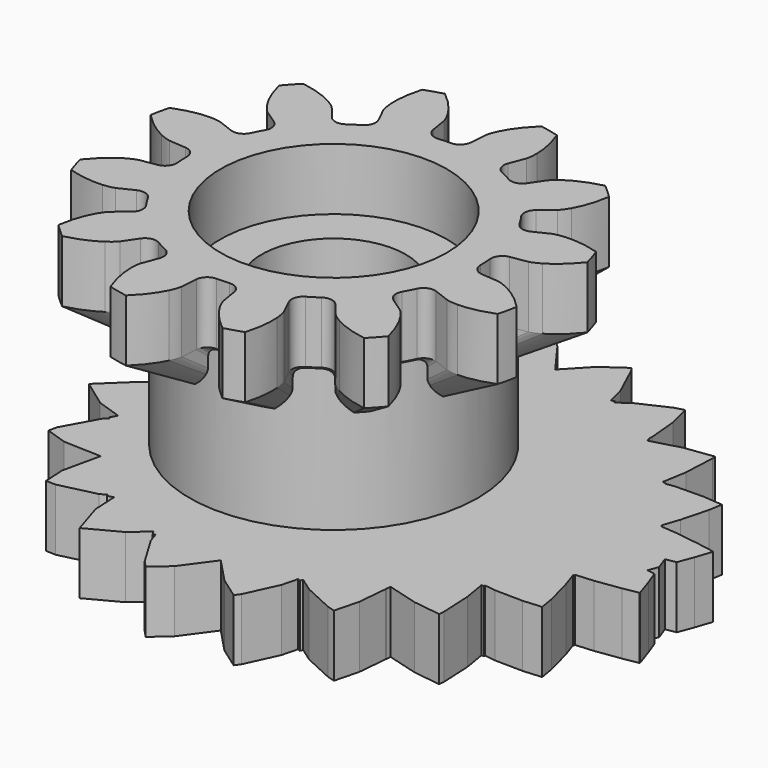
from build123d import *

# Parameters (mm, degrees)
CYLINDER006_R     = 5.5
CYLINDER006_DEPTH = 3
CYLINDER001_R     = 3.5
CYLINDER001_DEPTH = 20
CYLINDER007_R     = 5.5
CYLINDER007_DEPTH = 3
CYLINDER_R        = 7
CYLINDER_DEPTH    = 10
PAD005_DEPTH      = 3


with BuildPart() as bearingcutoutbot:
    # Cylinder006 → Cylinder006 (new body)
    with BuildSketch(Plane(origin=(24, 0, 0), x_dir=(1, 0, 0), z_dir=(0, 0, 1))):
        Circle(CYLINDER006_R)
    extrude(amount=CYLINDER006_DEPTH)


with BuildPart() as axlecutout:
    # Cylinder001 → Cylinder001 (new body)
    with BuildSketch(Plane(origin=(24, 0, 0), x_dir=(1, 0, 0), z_dir=(0, 0, 1))):
        Circle(CYLINDER001_R)
    extrude(amount=CYLINDER001_DEPTH)


with BuildPart() as cutouts:
    # Cylinder007 → Cylinder007 (new body)
    with BuildSketch(Plane(origin=(24, 0, 10), x_dir=(1, 0, 0), z_dir=(0, 0, 1))):
        Circle(CYLINDER007_R)
    extrude(amount=CYLINDER007_DEPTH)

    # Fusion006: union bearingCutoutBot, axleCutout
    add(bearingcutoutbot.part)
    add(axlecutout.part)


with BuildPart() as spacer:
    # Cylinder → Cylinder (new body)
    with BuildSketch(Plane(origin=(24, 0, 0), x_dir=(1, 0, 0), z_dir=(0, 0, 1))):
        Circle(CYLINDER_R)
    extrude(amount=CYLINDER_DEPTH)


with BuildPart() as topgear:
    # InvoluteGear003 → Loft section 0
    with BuildSketch(Plane(origin=(24, 0, 8), x_dir=(0.953717, 0.300706, 0), z_dir=(0, 0, 1))):
        with BuildLine():
            Line((5.057029, -0.742605), (5.594228, -0.820664))
            add(Edge.make_bspline(
                [(5.594228, -0.820664), (5.635581, -0.823609), (5.759738, -0.82636), (5.968462, -0.778836)],
                knots=[0, 0, 0, 0, 1, 1, 1, 1], degree=3))
            add(Edge.make_bspline(
                [(5.968462, -0.778836), (6.216913, -0.72081), (6.57069, -0.59196), (6.994514, -0.309757)],
                knots=[0, 0, 0, 0, 1, 1, 1, 1], degree=3))
            ThreePointArc((6.994514, -0.309757), (7.00137, 0), (6.994514, 0.309757))
            add(Edge.make_bspline(
                [(6.994514, 0.309757), (6.57069, 0.59196), (6.216913, 0.72081), (5.968462, 0.778836)],
                knots=[0, 0, 0, 0, 1, 1, 1, 1], degree=3))
            add(Edge.make_bspline(
                [(5.968462, 0.778836), (5.759738, 0.82636), (5.635581, 0.823609), (5.594228, 0.820664)],
                knots=[0, 0, 0, 0, 1, 1, 1, 1], degree=3))
            Line((5.594228, 0.820664), (5.057029, 0.742605))
            ThreePointArc((5.057029, 0.742605), (4.790267, 0.804493), (4.636707, 1.031234))
            ThreePointArc((4.636707, 1.031234), (4.588148, 1.22939), (4.531124, 1.425279))
            ThreePointArc((4.531124, 1.425279), (4.550739, 1.698422), (4.750818, 1.885399))
            Line((4.750818, 1.885399), (5.255075, 2.086398))
            add(Edge.make_bspline(
                [(5.255075, 2.086398), (5.292361, 2.104524), (5.401259, 2.16422), (5.558258, 2.309739)],
                knots=[0, 0, 0, 0, 1, 1, 1, 1], degree=3))
            add(Edge.make_bspline(
                [(5.558258, 2.309739), (5.74441, 2.484217), (5.986365, 2.772692), (6.212305, 3.229)],
                knots=[0, 0, 0, 0, 1, 1, 1, 1], degree=3))
            ThreePointArc((6.212305, 3.229), (6.063365, 3.500685), (5.902548, 3.765514))
            add(Edge.make_bspline(
                [(5.902548, 3.765514), (5.394404, 3.797998), (5.0236, 3.732696), (4.779422, 3.658723)],
                knots=[0, 0, 0, 0, 1, 1, 1, 1], degree=3))
            add(Edge.make_bspline(
                [(4.779422, 3.658723), (4.574899, 3.595517), (4.468752, 3.531057), (4.434411, 3.50783)],
                knots=[0, 0, 0, 0, 1, 1, 1, 1], degree=3))
            Line((4.434411, 3.50783), (4.008213, 3.171629))
            ThreePointArc((4.008213, 3.171629), (3.746246, 3.091845), (3.499889, 3.211429))
            ThreePointArc((3.499889, 3.211429), (3.358757, 3.358757), (3.211429, 3.499889))
            ThreePointArc((3.211429, 3.499889), (3.091845, 3.746246), (3.171629, 4.008213))
            Line((3.171629, 4.008213), (3.50783, 4.434411))
            add(Edge.make_bspline(
                [(3.50783, 4.434411), (3.531057, 4.468752), (3.595517, 4.574899), (3.658723, 4.779422)],
                knots=[0, 0, 0, 0, 1, 1, 1, 1], degree=3))
            add(Edge.make_bspline(
                [(3.658723, 4.779422), (3.732696, 5.0236), (3.797998, 5.394404), (3.765514, 5.902548)],
                knots=[0, 0, 0, 0, 1, 1, 1, 1], degree=3))
            ThreePointArc((3.765514, 5.902548), (3.500685, 6.063365), (3.229, 6.212305))
            add(Edge.make_bspline(
                [(3.229, 6.212305), (2.772692, 5.986365), (2.484217, 5.74441), (2.309739, 5.558258)],
                knots=[0, 0, 0, 0, 1, 1, 1, 1], degree=3))
            add(Edge.make_bspline(
                [(2.309739, 5.558258), (2.16422, 5.401259), (2.104524, 5.292361), (2.086398, 5.255075)],
                knots=[0, 0, 0, 0, 1, 1, 1, 1], degree=3))
            Line((2.086398, 5.255075), (1.885399, 4.750818))
            ThreePointArc((1.885399, 4.750818), (1.698422, 4.550739), (1.425279, 4.531124))
            ThreePointArc((1.425279, 4.531124), (1.22939, 4.588148), (1.031234, 4.636707))
            ThreePointArc((1.031234, 4.636707), (0.804493, 4.790267), (0.742605, 5.057029))
            Line((0.742605, 5.057029), (0.820664, 5.594228))
            add(Edge.make_bspline(
                [(0.820664, 5.594228), (0.823609, 5.635581), (0.82636, 5.759738), (0.778836, 5.968462)],
                knots=[0, 0, 0, 0, 1, 1, 1, 1], degree=3))
            add(Edge.make_bspline(
                [(0.778836, 5.968462), (0.72081, 6.216913), (0.59196, 6.57069), (0.309757, 6.994514)],
                knots=[0, 0, 0, 0, 1, 1, 1, 1], degree=3))
            ThreePointArc((0.309757, 6.994514), (0, 7.00137), (-0.309757, 6.994514))
            add(Edge.make_bspline(
                [(-0.309757, 6.994514), (-0.59196, 6.57069), (-0.72081, 6.216913), (-0.778836, 5.968462)],
                knots=[0, 0, 0, 0, 1, 1, 1, 1], degree=3))
            add(Edge.make_bspline(
                [(-0.778836, 5.968462), (-0.82636, 5.759738), (-0.823609, 5.635581), (-0.820664, 5.594228)],
                knots=[0, 0, 0, 0, 1, 1, 1, 1], degree=3))
            Line((-0.820664, 5.594228), (-0.742605, 5.057029))
            ThreePointArc((-0.742605, 5.057029), (-0.804493, 4.790267), (-1.031234, 4.636707))
            ThreePointArc((-1.031234, 4.636707), (-1.22939, 4.588148), (-1.425279, 4.531124))
            ThreePointArc((-1.425279, 4.531124), (-1.698422, 4.550739), (-1.885399, 4.750818))
            Line((-1.885399, 4.750818), (-2.086398, 5.255075))
            add(Edge.make_bspline(
                [(-2.086398, 5.255075), (-2.104524, 5.292361), (-2.16422, 5.401259), (-2.309739, 5.558258)],
                knots=[0, 0, 0, 0, 1, 1, 1, 1], degree=3))
            add(Edge.make_bspline(
                [(-2.309739, 5.558258), (-2.484217, 5.74441), (-2.772692, 5.986365), (-3.229, 6.212305)],
                knots=[0, 0, 0, 0, 1, 1, 1, 1], degree=3))
            ThreePointArc((-3.229, 6.212305), (-3.500685, 6.063365), (-3.765514, 5.902548))
            add(Edge.make_bspline(
                [(-3.765514, 5.902548), (-3.797998, 5.394404), (-3.732696, 5.0236), (-3.658723, 4.779422)],
                knots=[0, 0, 0, 0, 1, 1, 1, 1], degree=3))
            add(Edge.make_bspline(
                [(-3.658723, 4.779422), (-3.595517, 4.574899), (-3.531057, 4.468752), (-3.50783, 4.434411)],
                knots=[0, 0, 0, 0, 1, 1, 1, 1], degree=3))
            Line((-3.50783, 4.434411), (-3.171629, 4.008213))
            ThreePointArc((-3.171629, 4.008213), (-3.091845, 3.746246), (-3.211429, 3.499889))
            ThreePointArc((-3.211429, 3.499889), (-3.358757, 3.358757), (-3.499889, 3.211429))
            ThreePointArc((-3.499889, 3.211429), (-3.746246, 3.091845), (-4.008213, 3.171629))
            Line((-4.008213, 3.171629), (-4.434411, 3.50783))
            add(Edge.make_bspline(
                [(-4.434411, 3.50783), (-4.468752, 3.531057), (-4.574899, 3.595517), (-4.779422, 3.658723)],
                knots=[0, 0, 0, 0, 1, 1, 1, 1], degree=3))
            add(Edge.make_bspline(
                [(-4.779422, 3.658723), (-5.0236, 3.732696), (-5.394404, 3.797998), (-5.902548, 3.765514)],
                knots=[0, 0, 0, 0, 1, 1, 1, 1], degree=3))
            ThreePointArc((-5.902548, 3.765514), (-6.063365, 3.500685), (-6.212305, 3.229))
            add(Edge.make_bspline(
                [(-6.212305, 3.229), (-5.986365, 2.772692), (-5.74441, 2.484217), (-5.558258, 2.309739)],
                knots=[0, 0, 0, 0, 1, 1, 1, 1], degree=3))
            add(Edge.make_bspline(
                [(-5.558258, 2.309739), (-5.401259, 2.16422), (-5.292361, 2.104524), (-5.255075, 2.086398)],
                knots=[0, 0, 0, 0, 1, 1, 1, 1], degree=3))
            Line((-5.255075, 2.086398), (-4.750818, 1.885399))
            ThreePointArc((-4.750818, 1.885399), (-4.550739, 1.698422), (-4.531124, 1.425279))
            ThreePointArc((-4.531124, 1.425279), (-4.588148, 1.22939), (-4.636707, 1.031234))
            ThreePointArc((-4.636707, 1.031234), (-4.790267, 0.804493), (-5.057029, 0.742605))
            Line((-5.057029, 0.742605), (-5.594228, 0.820664))
            add(Edge.make_bspline(
                [(-5.594228, 0.820664), (-5.635581, 0.823609), (-5.759738, 0.82636), (-5.968462, 0.778836)],
                knots=[0, 0, 0, 0, 1, 1, 1, 1], degree=3))
            add(Edge.make_bspline(
                [(-5.968462, 0.778836), (-6.216913, 0.72081), (-6.57069, 0.59196), (-6.994514, 0.309757)],
                knots=[0, 0, 0, 0, 1, 1, 1, 1], degree=3))
            ThreePointArc((-6.994514, 0.309757), (-7.00137, 0), (-6.994514, -0.309757))
            add(Edge.make_bspline(
                [(-6.994514, -0.309757), (-6.57069, -0.59196), (-6.216913, -0.72081), (-5.968462, -0.778836)],
                knots=[0, 0, 0, 0, 1, 1, 1, 1], degree=3))
            add(Edge.make_bspline(
                [(-5.968462, -0.778836), (-5.759738, -0.82636), (-5.635581, -0.823609), (-5.594228, -0.820664)],
                knots=[0, 0, 0, 0, 1, 1, 1, 1], degree=3))
            Line((-5.594228, -0.820664), (-5.057029, -0.742605))
            ThreePointArc((-5.057029, -0.742605), (-4.790267, -0.804493), (-4.636707, -1.031234))
            ThreePointArc((-4.636707, -1.031234), (-4.588148, -1.22939), (-4.531124, -1.425279))
            ThreePointArc((-4.531124, -1.425279), (-4.550739, -1.698422), (-4.750818, -1.885399))
            Line((-4.750818, -1.885399), (-5.255075, -2.086398))
            add(Edge.make_bspline(
                [(-5.255075, -2.086398), (-5.292361, -2.104524), (-5.401259, -2.16422), (-5.558258, -2.309739)],
                knots=[0, 0, 0, 0, 1, 1, 1, 1], degree=3))
            add(Edge.make_bspline(
                [(-5.558258, -2.309739), (-5.74441, -2.484217), (-5.986365, -2.772692), (-6.212305, -3.229)],
                knots=[0, 0, 0, 0, 1, 1, 1, 1], degree=3))
            ThreePointArc((-6.212305, -3.229), (-6.063365, -3.500685), (-5.902548, -3.765514))
            add(Edge.make_bspline(
                [(-5.902548, -3.765514), (-5.394404, -3.797998), (-5.0236, -3.732696), (-4.779422, -3.658723)],
                knots=[0, 0, 0, 0, 1, 1, 1, 1], degree=3))
            add(Edge.make_bspline(
                [(-4.779422, -3.658723), (-4.574899, -3.595517), (-4.468752, -3.531057), (-4.434411, -3.50783)],
                knots=[0, 0, 0, 0, 1, 1, 1, 1], degree=3))
            Line((-4.434411, -3.50783), (-4.008213, -3.171629))
            ThreePointArc((-4.008213, -3.171629), (-3.746246, -3.091845), (-3.499889, -3.211429))
            ThreePointArc((-3.499889, -3.211429), (-3.358757, -3.358757), (-3.211429, -3.499889))
            ThreePointArc((-3.211429, -3.499889), (-3.091845, -3.746246), (-3.171629, -4.008213))
            Line((-3.171629, -4.008213), (-3.50783, -4.434411))
            add(Edge.make_bspline(
                [(-3.50783, -4.434411), (-3.531057, -4.468752), (-3.595517, -4.574899), (-3.658723, -4.779422)],
                knots=[0, 0, 0, 0, 1, 1, 1, 1], degree=3))
            add(Edge.make_bspline(
                [(-3.658723, -4.779422), (-3.732696, -5.0236), (-3.797998, -5.394404), (-3.765514, -5.902548)],
                knots=[0, 0, 0, 0, 1, 1, 1, 1], degree=3))
            ThreePointArc((-3.765514, -5.902548), (-3.500685, -6.063365), (-3.229, -6.212305))
            add(Edge.make_bspline(
                [(-3.229, -6.212305), (-2.772692, -5.986365), (-2.484217, -5.74441), (-2.309739, -5.558258)],
                knots=[0, 0, 0, 0, 1, 1, 1, 1], degree=3))
            add(Edge.make_bspline(
                [(-2.309739, -5.558258), (-2.16422, -5.401259), (-2.104524, -5.292361), (-2.086398, -5.255075)],
                knots=[0, 0, 0, 0, 1, 1, 1, 1], degree=3))
            Line((-2.086398, -5.255075), (-1.885399, -4.750818))
            ThreePointArc((-1.885399, -4.750818), (-1.698422, -4.550739), (-1.425279, -4.531124))
            ThreePointArc((-1.425279, -4.531124), (-1.22939, -4.588148), (-1.031234, -4.636707))
            ThreePointArc((-1.031234, -4.636707), (-0.804493, -4.790267), (-0.742605, -5.057029))
            Line((-0.742605, -5.057029), (-0.820664, -5.594228))
            add(Edge.make_bspline(
                [(-0.820664, -5.594228), (-0.823609, -5.635581), (-0.82636, -5.759738), (-0.778836, -5.968462)],
                knots=[0, 0, 0, 0, 1, 1, 1, 1], degree=3))
            add(Edge.make_bspline(
                [(-0.778836, -5.968462), (-0.72081, -6.216913), (-0.59196, -6.57069), (-0.309757, -6.994514)],
                knots=[0, 0, 0, 0, 1, 1, 1, 1], degree=3))
            ThreePointArc((-0.309757, -6.994514), (0, -7.00137), (0.309757, -6.994514))
            add(Edge.make_bspline(
                [(0.309757, -6.994514), (0.59196, -6.57069), (0.72081, -6.216913), (0.778836, -5.968462)],
                knots=[0, 0, 0, 0, 1, 1, 1, 1], degree=3))
            add(Edge.make_bspline(
                [(0.778836, -5.968462), (0.82636, -5.759738), (0.823609, -5.635581), (0.820664, -5.594228)],
                knots=[0, 0, 0, 0, 1, 1, 1, 1], degree=3))
            Line((0.820664, -5.594228), (0.742605, -5.057029))
            ThreePointArc((0.742605, -5.057029), (0.804493, -4.790267), (1.031234, -4.636707))
            ThreePointArc((1.031234, -4.636707), (1.22939, -4.588148), (1.425279, -4.531124))
            ThreePointArc((1.425279, -4.531124), (1.698422, -4.550739), (1.885399, -4.750818))
            Line((1.885399, -4.750818), (2.086398, -5.255075))
            add(Edge.make_bspline(
                [(2.086398, -5.255075), (2.104524, -5.292361), (2.16422, -5.401259), (2.309739, -5.558258)],
                knots=[0, 0, 0, 0, 1, 1, 1, 1], degree=3))
            add(Edge.make_bspline(
                [(2.309739, -5.558258), (2.484217, -5.74441), (2.772692, -5.986365), (3.229, -6.212305)],
                knots=[0, 0, 0, 0, 1, 1, 1, 1], degree=3))
            ThreePointArc((3.229, -6.212305), (3.500685, -6.063365), (3.765514, -5.902548))
            add(Edge.make_bspline(
                [(3.765514, -5.902548), (3.797998, -5.394404), (3.732696, -5.0236), (3.658723, -4.779422)],
                knots=[0, 0, 0, 0, 1, 1, 1, 1], degree=3))
            add(Edge.make_bspline(
                [(3.658723, -4.779422), (3.595517, -4.574899), (3.531057, -4.468752), (3.50783, -4.434411)],
                knots=[0, 0, 0, 0, 1, 1, 1, 1], degree=3))
            Line((3.50783, -4.434411), (3.171629, -4.008213))
            ThreePointArc((3.171629, -4.008213), (3.091845, -3.746246), (3.211429, -3.499889))
            ThreePointArc((3.211429, -3.499889), (3.358757, -3.358757), (3.499889, -3.211429))
            ThreePointArc((3.499889, -3.211429), (3.746246, -3.091845), (4.008213, -3.171629))
            Line((4.008213, -3.171629), (4.434411, -3.50783))
            add(Edge.make_bspline(
                [(4.434411, -3.50783), (4.468752, -3.531057), (4.574899, -3.595517), (4.779422, -3.658723)],
                knots=[0, 0, 0, 0, 1, 1, 1, 1], degree=3))
            add(Edge.make_bspline(
                [(4.779422, -3.658723), (5.0236, -3.732696), (5.394404, -3.797998), (5.902548, -3.765514)],
                knots=[0, 0, 0, 0, 1, 1, 1, 1], degree=3))
            ThreePointArc((5.902548, -3.765514), (6.063365, -3.500685), (6.212305, -3.229))
            add(Edge.make_bspline(
                [(6.212305, -3.229), (5.986365, -2.772692), (5.74441, -2.484217), (5.558258, -2.309739)],
                knots=[0, 0, 0, 0, 1, 1, 1, 1], degree=3))
            add(Edge.make_bspline(
                [(5.558258, -2.309739), (5.401259, -2.16422), (5.292361, -2.104524), (5.255075, -2.086398)],
                knots=[0, 0, 0, 0, 1, 1, 1, 1], degree=3))
            Line((5.255075, -2.086398), (4.750818, -1.885399))
            ThreePointArc((4.750818, -1.885399), (4.550739, -1.698422), (4.531124, -1.425279))
            ThreePointArc((4.531124, -1.425279), (4.588148, -1.22939), (4.636707, -1.031234))
            ThreePointArc((4.636707, -1.031234), (4.790267, -0.804493), (5.057029, -0.742605))
        make_face()
    # InvoluteGear005 → Loft section 1
    with BuildSketch(Plane(origin=(24, 0, 10), x_dir=(0.953717, 0.300706, 0), z_dir=(0, 0, 1))):
        with BuildLine():
            Line((7.585543, -1.113908), (8.391342, -1.230997))
            add(Edge.make_bspline(
                [(8.391342, -1.230997), (8.453372, -1.235413), (8.639606, -1.239539), (8.952693, -1.168255)],
                knots=[0, 0, 0, 0, 1, 1, 1, 1], degree=3))
            add(Edge.make_bspline(
                [(8.952693, -1.168255), (9.32537, -1.081215), (9.856035, -0.88794), (10.49177, -0.464635)],
                knots=[0, 0, 0, 0, 1, 1, 1, 1], degree=3))
            ThreePointArc((10.49177, -0.464635), (10.502056, 0), (10.49177, 0.464635))
            add(Edge.make_bspline(
                [(10.49177, 0.464635), (9.856035, 0.88794), (9.32537, 1.081215), (8.952693, 1.168255)],
                knots=[0, 0, 0, 0, 1, 1, 1, 1], degree=3))
            add(Edge.make_bspline(
                [(8.952693, 1.168255), (8.639606, 1.239539), (8.453372, 1.235413), (8.391342, 1.230997)],
                knots=[0, 0, 0, 0, 1, 1, 1, 1], degree=3))
            Line((8.391342, 1.230997), (7.585543, 1.113908))
            ThreePointArc((7.585543, 1.113908), (7.1854, 1.20674), (6.955061, 1.546852))
            ThreePointArc((6.955061, 1.546852), (6.882222, 1.844086), (6.796685, 2.137918))
            ThreePointArc((6.796685, 2.137918), (6.826109, 2.547633), (7.126227, 2.828099))
            Line((7.126227, 2.828099), (7.882613, 3.129596))
            add(Edge.make_bspline(
                [(7.882613, 3.129596), (7.938542, 3.156787), (8.101888, 3.246331), (8.337387, 3.464608)],
                knots=[0, 0, 0, 0, 1, 1, 1, 1], degree=3))
            add(Edge.make_bspline(
                [(8.337387, 3.464608), (8.616615, 3.726326), (8.979547, 4.159039), (9.318457, 4.8435)],
                knots=[0, 0, 0, 0, 1, 1, 1, 1], degree=3))
            ThreePointArc((9.318457, 4.8435), (9.095047, 5.251028), (8.853822, 5.648271))
            add(Edge.make_bspline(
                [(8.853822, 5.648271), (8.091607, 5.696996), (7.5354, 5.599044), (7.169132, 5.488085)],
                knots=[0, 0, 0, 0, 1, 1, 1, 1], degree=3))
            add(Edge.make_bspline(
                [(7.169132, 5.488085), (6.862349, 5.393276), (6.703128, 5.296585), (6.651617, 5.261745)],
                knots=[0, 0, 0, 0, 1, 1, 1, 1], degree=3))
            Line((6.651617, 5.261745), (6.012319, 4.757444))
            ThreePointArc((6.012319, 4.757444), (5.619369, 4.637767), (5.249834, 4.817143))
            ThreePointArc((5.249834, 4.817143), (5.038136, 5.038136), (4.817143, 5.249834))
            ThreePointArc((4.817143, 5.249834), (4.637767, 5.619369), (4.757444, 6.012319))
            Line((4.757444, 6.012319), (5.261745, 6.651617))
            add(Edge.make_bspline(
                [(5.261745, 6.651617), (5.296585, 6.703128), (5.393276, 6.862349), (5.488085, 7.169132)],
                knots=[0, 0, 0, 0, 1, 1, 1, 1], degree=3))
            add(Edge.make_bspline(
                [(5.488085, 7.169132), (5.599044, 7.5354), (5.696996, 8.091607), (5.648271, 8.853822)],
                knots=[0, 0, 0, 0, 1, 1, 1, 1], degree=3))
            ThreePointArc((5.648271, 8.853822), (5.251028, 9.095047), (4.8435, 9.318457))
            add(Edge.make_bspline(
                [(4.8435, 9.318457), (4.159039, 8.979547), (3.726326, 8.616615), (3.464608, 8.337387)],
                knots=[0, 0, 0, 0, 1, 1, 1, 1], degree=3))
            add(Edge.make_bspline(
                [(3.464608, 8.337387), (3.246331, 8.101888), (3.156787, 7.938542), (3.129596, 7.882613)],
                knots=[0, 0, 0, 0, 1, 1, 1, 1], degree=3))
            Line((3.129596, 7.882613), (2.828099, 7.126227))
            ThreePointArc((2.828099, 7.126227), (2.547633, 6.826109), (2.137918, 6.796685))
            ThreePointArc((2.137918, 6.796685), (1.844086, 6.882222), (1.546852, 6.955061))
            ThreePointArc((1.546852, 6.955061), (1.20674, 7.1854), (1.113908, 7.585543))
            Line((1.113908, 7.585543), (1.230997, 8.391342))
            add(Edge.make_bspline(
                [(1.230997, 8.391342), (1.235413, 8.453372), (1.239539, 8.639606), (1.168255, 8.952693)],
                knots=[0, 0, 0, 0, 1, 1, 1, 1], degree=3))
            add(Edge.make_bspline(
                [(1.168255, 8.952693), (1.081215, 9.32537), (0.88794, 9.856035), (0.464635, 10.49177)],
                knots=[0, 0, 0, 0, 1, 1, 1, 1], degree=3))
            ThreePointArc((0.464635, 10.49177), (0, 10.502056), (-0.464635, 10.49177))
            add(Edge.make_bspline(
                [(-0.464635, 10.49177), (-0.88794, 9.856035), (-1.081215, 9.32537), (-1.168255, 8.952693)],
                knots=[0, 0, 0, 0, 1, 1, 1, 1], degree=3))
            add(Edge.make_bspline(
                [(-1.168255, 8.952693), (-1.239539, 8.639606), (-1.235413, 8.453372), (-1.230997, 8.391342)],
                knots=[0, 0, 0, 0, 1, 1, 1, 1], degree=3))
            Line((-1.230997, 8.391342), (-1.113908, 7.585543))
            ThreePointArc((-1.113908, 7.585543), (-1.20674, 7.1854), (-1.546852, 6.955061))
            ThreePointArc((-1.546852, 6.955061), (-1.844086, 6.882222), (-2.137918, 6.796685))
            ThreePointArc((-2.137918, 6.796685), (-2.547633, 6.826109), (-2.828099, 7.126227))
            Line((-2.828099, 7.126227), (-3.129596, 7.882613))
            add(Edge.make_bspline(
                [(-3.129596, 7.882613), (-3.156787, 7.938542), (-3.246331, 8.101888), (-3.464608, 8.337387)],
                knots=[0, 0, 0, 0, 1, 1, 1, 1], degree=3))
            add(Edge.make_bspline(
                [(-3.464608, 8.337387), (-3.726326, 8.616615), (-4.159039, 8.979547), (-4.8435, 9.318457)],
                knots=[0, 0, 0, 0, 1, 1, 1, 1], degree=3))
            ThreePointArc((-4.8435, 9.318457), (-5.251028, 9.095047), (-5.648271, 8.853822))
            add(Edge.make_bspline(
                [(-5.648271, 8.853822), (-5.696996, 8.091607), (-5.599044, 7.5354), (-5.488085, 7.169132)],
                knots=[0, 0, 0, 0, 1, 1, 1, 1], degree=3))
            add(Edge.make_bspline(
                [(-5.488085, 7.169132), (-5.393276, 6.862349), (-5.296585, 6.703128), (-5.261745, 6.651617)],
                knots=[0, 0, 0, 0, 1, 1, 1, 1], degree=3))
            Line((-5.261745, 6.651617), (-4.757444, 6.012319))
            ThreePointArc((-4.757444, 6.012319), (-4.637767, 5.619369), (-4.817143, 5.249834))
            ThreePointArc((-4.817143, 5.249834), (-5.038136, 5.038136), (-5.249834, 4.817143))
            ThreePointArc((-5.249834, 4.817143), (-5.619369, 4.637767), (-6.012319, 4.757444))
            Line((-6.012319, 4.757444), (-6.651617, 5.261745))
            add(Edge.make_bspline(
                [(-6.651617, 5.261745), (-6.703128, 5.296585), (-6.862349, 5.393276), (-7.169132, 5.488085)],
                knots=[0, 0, 0, 0, 1, 1, 1, 1], degree=3))
            add(Edge.make_bspline(
                [(-7.169132, 5.488085), (-7.5354, 5.599044), (-8.091607, 5.696996), (-8.853822, 5.648271)],
                knots=[0, 0, 0, 0, 1, 1, 1, 1], degree=3))
            ThreePointArc((-8.853822, 5.648271), (-9.095047, 5.251028), (-9.318457, 4.8435))
            add(Edge.make_bspline(
                [(-9.318457, 4.8435), (-8.979547, 4.159039), (-8.616615, 3.726326), (-8.337387, 3.464608)],
                knots=[0, 0, 0, 0, 1, 1, 1, 1], degree=3))
            add(Edge.make_bspline(
                [(-8.337387, 3.464608), (-8.101888, 3.246331), (-7.938542, 3.156787), (-7.882613, 3.129596)],
                knots=[0, 0, 0, 0, 1, 1, 1, 1], degree=3))
            Line((-7.882613, 3.129596), (-7.126227, 2.828099))
            ThreePointArc((-7.126227, 2.828099), (-6.826109, 2.547633), (-6.796685, 2.137918))
            ThreePointArc((-6.796685, 2.137918), (-6.882222, 1.844086), (-6.955061, 1.546852))
            ThreePointArc((-6.955061, 1.546852), (-7.1854, 1.20674), (-7.585543, 1.113908))
            Line((-7.585543, 1.113908), (-8.391342, 1.230997))
            add(Edge.make_bspline(
                [(-8.391342, 1.230997), (-8.453372, 1.235413), (-8.639606, 1.239539), (-8.952693, 1.168255)],
                knots=[0, 0, 0, 0, 1, 1, 1, 1], degree=3))
            add(Edge.make_bspline(
                [(-8.952693, 1.168255), (-9.32537, 1.081215), (-9.856035, 0.88794), (-10.49177, 0.464635)],
                knots=[0, 0, 0, 0, 1, 1, 1, 1], degree=3))
            ThreePointArc((-10.49177, 0.464635), (-10.502056, 0), (-10.49177, -0.464635))
            add(Edge.make_bspline(
                [(-10.49177, -0.464635), (-9.856035, -0.88794), (-9.32537, -1.081215), (-8.952693, -1.168255)],
                knots=[0, 0, 0, 0, 1, 1, 1, 1], degree=3))
            add(Edge.make_bspline(
                [(-8.952693, -1.168255), (-8.639606, -1.239539), (-8.453372, -1.235413), (-8.391342, -1.230997)],
                knots=[0, 0, 0, 0, 1, 1, 1, 1], degree=3))
            Line((-8.391342, -1.230997), (-7.585543, -1.113908))
            ThreePointArc((-7.585543, -1.113908), (-7.1854, -1.20674), (-6.955061, -1.546852))
            ThreePointArc((-6.955061, -1.546852), (-6.882222, -1.844086), (-6.796685, -2.137918))
            ThreePointArc((-6.796685, -2.137918), (-6.826109, -2.547633), (-7.126227, -2.828099))
            Line((-7.126227, -2.828099), (-7.882613, -3.129596))
            add(Edge.make_bspline(
                [(-7.882613, -3.129596), (-7.938542, -3.156787), (-8.101888, -3.246331), (-8.337387, -3.464608)],
                knots=[0, 0, 0, 0, 1, 1, 1, 1], degree=3))
            add(Edge.make_bspline(
                [(-8.337387, -3.464608), (-8.616615, -3.726326), (-8.979547, -4.159039), (-9.318457, -4.8435)],
                knots=[0, 0, 0, 0, 1, 1, 1, 1], degree=3))
            ThreePointArc((-9.318457, -4.8435), (-9.095047, -5.251028), (-8.853822, -5.648271))
            add(Edge.make_bspline(
                [(-8.853822, -5.648271), (-8.091607, -5.696996), (-7.5354, -5.599044), (-7.169132, -5.488085)],
                knots=[0, 0, 0, 0, 1, 1, 1, 1], degree=3))
            add(Edge.make_bspline(
                [(-7.169132, -5.488085), (-6.862349, -5.393276), (-6.703128, -5.296585), (-6.651617, -5.261745)],
                knots=[0, 0, 0, 0, 1, 1, 1, 1], degree=3))
            Line((-6.651617, -5.261745), (-6.012319, -4.757444))
            ThreePointArc((-6.012319, -4.757444), (-5.619369, -4.637767), (-5.249834, -4.817143))
            ThreePointArc((-5.249834, -4.817143), (-5.038136, -5.038136), (-4.817143, -5.249834))
            ThreePointArc((-4.817143, -5.249834), (-4.637767, -5.619369), (-4.757444, -6.012319))
            Line((-4.757444, -6.012319), (-5.261745, -6.651617))
            add(Edge.make_bspline(
                [(-5.261745, -6.651617), (-5.296585, -6.703128), (-5.393276, -6.862349), (-5.488085, -7.169132)],
                knots=[0, 0, 0, 0, 1, 1, 1, 1], degree=3))
            add(Edge.make_bspline(
                [(-5.488085, -7.169132), (-5.599044, -7.5354), (-5.696996, -8.091607), (-5.648271, -8.853822)],
                knots=[0, 0, 0, 0, 1, 1, 1, 1], degree=3))
            ThreePointArc((-5.648271, -8.853822), (-5.251028, -9.095047), (-4.8435, -9.318457))
            add(Edge.make_bspline(
                [(-4.8435, -9.318457), (-4.159039, -8.979547), (-3.726326, -8.616615), (-3.464608, -8.337387)],
                knots=[0, 0, 0, 0, 1, 1, 1, 1], degree=3))
            add(Edge.make_bspline(
                [(-3.464608, -8.337387), (-3.246331, -8.101888), (-3.156787, -7.938542), (-3.129596, -7.882613)],
                knots=[0, 0, 0, 0, 1, 1, 1, 1], degree=3))
            Line((-3.129596, -7.882613), (-2.828099, -7.126227))
            ThreePointArc((-2.828099, -7.126227), (-2.547633, -6.826109), (-2.137918, -6.796685))
            ThreePointArc((-2.137918, -6.796685), (-1.844086, -6.882222), (-1.546852, -6.955061))
            ThreePointArc((-1.546852, -6.955061), (-1.20674, -7.1854), (-1.113908, -7.585543))
            Line((-1.113908, -7.585543), (-1.230997, -8.391342))
            add(Edge.make_bspline(
                [(-1.230997, -8.391342), (-1.235413, -8.453372), (-1.239539, -8.639606), (-1.168255, -8.952693)],
                knots=[0, 0, 0, 0, 1, 1, 1, 1], degree=3))
            add(Edge.make_bspline(
                [(-1.168255, -8.952693), (-1.081215, -9.32537), (-0.88794, -9.856035), (-0.464635, -10.49177)],
                knots=[0, 0, 0, 0, 1, 1, 1, 1], degree=3))
            ThreePointArc((-0.464635, -10.49177), (0, -10.502056), (0.464635, -10.49177))
            add(Edge.make_bspline(
                [(0.464635, -10.49177), (0.88794, -9.856035), (1.081215, -9.32537), (1.168255, -8.952693)],
                knots=[0, 0, 0, 0, 1, 1, 1, 1], degree=3))
            add(Edge.make_bspline(
                [(1.168255, -8.952693), (1.239539, -8.639606), (1.235413, -8.453372), (1.230997, -8.391342)],
                knots=[0, 0, 0, 0, 1, 1, 1, 1], degree=3))
            Line((1.230997, -8.391342), (1.113908, -7.585543))
            ThreePointArc((1.113908, -7.585543), (1.20674, -7.1854), (1.546852, -6.955061))
            ThreePointArc((1.546852, -6.955061), (1.844086, -6.882222), (2.137918, -6.796685))
            ThreePointArc((2.137918, -6.796685), (2.547633, -6.826109), (2.828099, -7.126227))
            Line((2.828099, -7.126227), (3.129596, -7.882613))
            add(Edge.make_bspline(
                [(3.129596, -7.882613), (3.156787, -7.938542), (3.246331, -8.101888), (3.464608, -8.337387)],
                knots=[0, 0, 0, 0, 1, 1, 1, 1], degree=3))
            add(Edge.make_bspline(
                [(3.464608, -8.337387), (3.726326, -8.616615), (4.159039, -8.979547), (4.8435, -9.318457)],
                knots=[0, 0, 0, 0, 1, 1, 1, 1], degree=3))
            ThreePointArc((4.8435, -9.318457), (5.251028, -9.095047), (5.648271, -8.853822))
            add(Edge.make_bspline(
                [(5.648271, -8.853822), (5.696996, -8.091607), (5.599044, -7.5354), (5.488085, -7.169132)],
                knots=[0, 0, 0, 0, 1, 1, 1, 1], degree=3))
            add(Edge.make_bspline(
                [(5.488085, -7.169132), (5.393276, -6.862349), (5.296585, -6.703128), (5.261745, -6.651617)],
                knots=[0, 0, 0, 0, 1, 1, 1, 1], degree=3))
            Line((5.261745, -6.651617), (4.757444, -6.012319))
            ThreePointArc((4.757444, -6.012319), (4.637767, -5.619369), (4.817143, -5.249834))
            ThreePointArc((4.817143, -5.249834), (5.038136, -5.038136), (5.249834, -4.817143))
            ThreePointArc((5.249834, -4.817143), (5.619369, -4.637767), (6.012319, -4.757444))
            Line((6.012319, -4.757444), (6.651617, -5.261745))
            add(Edge.make_bspline(
                [(6.651617, -5.261745), (6.703128, -5.296585), (6.862349, -5.393276), (7.169132, -5.488085)],
                knots=[0, 0, 0, 0, 1, 1, 1, 1], degree=3))
            add(Edge.make_bspline(
                [(7.169132, -5.488085), (7.5354, -5.599044), (8.091607, -5.696996), (8.853822, -5.648271)],
                knots=[0, 0, 0, 0, 1, 1, 1, 1], degree=3))
            ThreePointArc((8.853822, -5.648271), (9.095047, -5.251028), (9.318457, -4.8435))
            add(Edge.make_bspline(
                [(9.318457, -4.8435), (8.979547, -4.159039), (8.616615, -3.726326), (8.337387, -3.464608)],
                knots=[0, 0, 0, 0, 1, 1, 1, 1], degree=3))
            add(Edge.make_bspline(
                [(8.337387, -3.464608), (8.101888, -3.246331), (7.938542, -3.156787), (7.882613, -3.129596)],
                knots=[0, 0, 0, 0, 1, 1, 1, 1], degree=3))
            Line((7.882613, -3.129596), (7.126227, -2.828099))
            ThreePointArc((7.126227, -2.828099), (6.826109, -2.547633), (6.796685, -2.137918))
            ThreePointArc((6.796685, -2.137918), (6.882222, -1.844086), (6.955061, -1.546852))
            ThreePointArc((6.955061, -1.546852), (7.1854, -1.20674), (7.585543, -1.113908))
        make_face()
    # InvoluteGear004 → Loft section 2
    with BuildSketch(Plane(origin=(24, 0, 13), x_dir=(0.953717, 0.300706, 0), z_dir=(0, 0, 1))):
        with BuildLine():
            Line((7.585543, -1.113908), (8.391342, -1.230997))
            add(Edge.make_bspline(
                [(8.391342, -1.230997), (8.453372, -1.235413), (8.639606, -1.239539), (8.952693, -1.168255)],
                knots=[0, 0, 0, 0, 1, 1, 1, 1], degree=3))
            add(Edge.make_bspline(
                [(8.952693, -1.168255), (9.32537, -1.081215), (9.856035, -0.88794), (10.49177, -0.464635)],
                knots=[0, 0, 0, 0, 1, 1, 1, 1], degree=3))
            ThreePointArc((10.49177, -0.464635), (10.502056, 0), (10.49177, 0.464635))
            add(Edge.make_bspline(
                [(10.49177, 0.464635), (9.856035, 0.88794), (9.32537, 1.081215), (8.952693, 1.168255)],
                knots=[0, 0, 0, 0, 1, 1, 1, 1], degree=3))
            add(Edge.make_bspline(
                [(8.952693, 1.168255), (8.639606, 1.239539), (8.453372, 1.235413), (8.391342, 1.230997)],
                knots=[0, 0, 0, 0, 1, 1, 1, 1], degree=3))
            Line((8.391342, 1.230997), (7.585543, 1.113908))
            ThreePointArc((7.585543, 1.113908), (7.1854, 1.20674), (6.955061, 1.546852))
            ThreePointArc((6.955061, 1.546852), (6.882222, 1.844086), (6.796685, 2.137918))
            ThreePointArc((6.796685, 2.137918), (6.826109, 2.547633), (7.126227, 2.828099))
            Line((7.126227, 2.828099), (7.882613, 3.129596))
            add(Edge.make_bspline(
                [(7.882613, 3.129596), (7.938542, 3.156787), (8.101888, 3.246331), (8.337387, 3.464608)],
                knots=[0, 0, 0, 0, 1, 1, 1, 1], degree=3))
            add(Edge.make_bspline(
                [(8.337387, 3.464608), (8.616615, 3.726326), (8.979547, 4.159039), (9.318457, 4.8435)],
                knots=[0, 0, 0, 0, 1, 1, 1, 1], degree=3))
            ThreePointArc((9.318457, 4.8435), (9.095047, 5.251028), (8.853822, 5.648271))
            add(Edge.make_bspline(
                [(8.853822, 5.648271), (8.091607, 5.696996), (7.5354, 5.599044), (7.169132, 5.488085)],
                knots=[0, 0, 0, 0, 1, 1, 1, 1], degree=3))
            add(Edge.make_bspline(
                [(7.169132, 5.488085), (6.862349, 5.393276), (6.703128, 5.296585), (6.651617, 5.261745)],
                knots=[0, 0, 0, 0, 1, 1, 1, 1], degree=3))
            Line((6.651617, 5.261745), (6.012319, 4.757444))
            ThreePointArc((6.012319, 4.757444), (5.619369, 4.637767), (5.249834, 4.817143))
            ThreePointArc((5.249834, 4.817143), (5.038136, 5.038136), (4.817143, 5.249834))
            ThreePointArc((4.817143, 5.249834), (4.637767, 5.619369), (4.757444, 6.012319))
            Line((4.757444, 6.012319), (5.261745, 6.651617))
            add(Edge.make_bspline(
                [(5.261745, 6.651617), (5.296585, 6.703128), (5.393276, 6.862349), (5.488085, 7.169132)],
                knots=[0, 0, 0, 0, 1, 1, 1, 1], degree=3))
            add(Edge.make_bspline(
                [(5.488085, 7.169132), (5.599044, 7.5354), (5.696996, 8.091607), (5.648271, 8.853822)],
                knots=[0, 0, 0, 0, 1, 1, 1, 1], degree=3))
            ThreePointArc((5.648271, 8.853822), (5.251028, 9.095047), (4.8435, 9.318457))
            add(Edge.make_bspline(
                [(4.8435, 9.318457), (4.159039, 8.979547), (3.726326, 8.616615), (3.464608, 8.337387)],
                knots=[0, 0, 0, 0, 1, 1, 1, 1], degree=3))
            add(Edge.make_bspline(
                [(3.464608, 8.337387), (3.246331, 8.101888), (3.156787, 7.938542), (3.129596, 7.882613)],
                knots=[0, 0, 0, 0, 1, 1, 1, 1], degree=3))
            Line((3.129596, 7.882613), (2.828099, 7.126227))
            ThreePointArc((2.828099, 7.126227), (2.547633, 6.826109), (2.137918, 6.796685))
            ThreePointArc((2.137918, 6.796685), (1.844086, 6.882222), (1.546852, 6.955061))
            ThreePointArc((1.546852, 6.955061), (1.20674, 7.1854), (1.113908, 7.585543))
            Line((1.113908, 7.585543), (1.230997, 8.391342))
            add(Edge.make_bspline(
                [(1.230997, 8.391342), (1.235413, 8.453372), (1.239539, 8.639606), (1.168255, 8.952693)],
                knots=[0, 0, 0, 0, 1, 1, 1, 1], degree=3))
            add(Edge.make_bspline(
                [(1.168255, 8.952693), (1.081215, 9.32537), (0.88794, 9.856035), (0.464635, 10.49177)],
                knots=[0, 0, 0, 0, 1, 1, 1, 1], degree=3))
            ThreePointArc((0.464635, 10.49177), (0, 10.502056), (-0.464635, 10.49177))
            add(Edge.make_bspline(
                [(-0.464635, 10.49177), (-0.88794, 9.856035), (-1.081215, 9.32537), (-1.168255, 8.952693)],
                knots=[0, 0, 0, 0, 1, 1, 1, 1], degree=3))
            add(Edge.make_bspline(
                [(-1.168255, 8.952693), (-1.239539, 8.639606), (-1.235413, 8.453372), (-1.230997, 8.391342)],
                knots=[0, 0, 0, 0, 1, 1, 1, 1], degree=3))
            Line((-1.230997, 8.391342), (-1.113908, 7.585543))
            ThreePointArc((-1.113908, 7.585543), (-1.20674, 7.1854), (-1.546852, 6.955061))
            ThreePointArc((-1.546852, 6.955061), (-1.844086, 6.882222), (-2.137918, 6.796685))
            ThreePointArc((-2.137918, 6.796685), (-2.547633, 6.826109), (-2.828099, 7.126227))
            Line((-2.828099, 7.126227), (-3.129596, 7.882613))
            add(Edge.make_bspline(
                [(-3.129596, 7.882613), (-3.156787, 7.938542), (-3.246331, 8.101888), (-3.464608, 8.337387)],
                knots=[0, 0, 0, 0, 1, 1, 1, 1], degree=3))
            add(Edge.make_bspline(
                [(-3.464608, 8.337387), (-3.726326, 8.616615), (-4.159039, 8.979547), (-4.8435, 9.318457)],
                knots=[0, 0, 0, 0, 1, 1, 1, 1], degree=3))
            ThreePointArc((-4.8435, 9.318457), (-5.251028, 9.095047), (-5.648271, 8.853822))
            add(Edge.make_bspline(
                [(-5.648271, 8.853822), (-5.696996, 8.091607), (-5.599044, 7.5354), (-5.488085, 7.169132)],
                knots=[0, 0, 0, 0, 1, 1, 1, 1], degree=3))
            add(Edge.make_bspline(
                [(-5.488085, 7.169132), (-5.393276, 6.862349), (-5.296585, 6.703128), (-5.261745, 6.651617)],
                knots=[0, 0, 0, 0, 1, 1, 1, 1], degree=3))
            Line((-5.261745, 6.651617), (-4.757444, 6.012319))
            ThreePointArc((-4.757444, 6.012319), (-4.637767, 5.619369), (-4.817143, 5.249834))
            ThreePointArc((-4.817143, 5.249834), (-5.038136, 5.038136), (-5.249834, 4.817143))
            ThreePointArc((-5.249834, 4.817143), (-5.619369, 4.637767), (-6.012319, 4.757444))
            Line((-6.012319, 4.757444), (-6.651617, 5.261745))
            add(Edge.make_bspline(
                [(-6.651617, 5.261745), (-6.703128, 5.296585), (-6.862349, 5.393276), (-7.169132, 5.488085)],
                knots=[0, 0, 0, 0, 1, 1, 1, 1], degree=3))
            add(Edge.make_bspline(
                [(-7.169132, 5.488085), (-7.5354, 5.599044), (-8.091607, 5.696996), (-8.853822, 5.648271)],
                knots=[0, 0, 0, 0, 1, 1, 1, 1], degree=3))
            ThreePointArc((-8.853822, 5.648271), (-9.095047, 5.251028), (-9.318457, 4.8435))
            add(Edge.make_bspline(
                [(-9.318457, 4.8435), (-8.979547, 4.159039), (-8.616615, 3.726326), (-8.337387, 3.464608)],
                knots=[0, 0, 0, 0, 1, 1, 1, 1], degree=3))
            add(Edge.make_bspline(
                [(-8.337387, 3.464608), (-8.101888, 3.246331), (-7.938542, 3.156787), (-7.882613, 3.129596)],
                knots=[0, 0, 0, 0, 1, 1, 1, 1], degree=3))
            Line((-7.882613, 3.129596), (-7.126227, 2.828099))
            ThreePointArc((-7.126227, 2.828099), (-6.826109, 2.547633), (-6.796685, 2.137918))
            ThreePointArc((-6.796685, 2.137918), (-6.882222, 1.844086), (-6.955061, 1.546852))
            ThreePointArc((-6.955061, 1.546852), (-7.1854, 1.20674), (-7.585543, 1.113908))
            Line((-7.585543, 1.113908), (-8.391342, 1.230997))
            add(Edge.make_bspline(
                [(-8.391342, 1.230997), (-8.453372, 1.235413), (-8.639606, 1.239539), (-8.952693, 1.168255)],
                knots=[0, 0, 0, 0, 1, 1, 1, 1], degree=3))
            add(Edge.make_bspline(
                [(-8.952693, 1.168255), (-9.32537, 1.081215), (-9.856035, 0.88794), (-10.49177, 0.464635)],
                knots=[0, 0, 0, 0, 1, 1, 1, 1], degree=3))
            ThreePointArc((-10.49177, 0.464635), (-10.502056, 0), (-10.49177, -0.464635))
            add(Edge.make_bspline(
                [(-10.49177, -0.464635), (-9.856035, -0.88794), (-9.32537, -1.081215), (-8.952693, -1.168255)],
                knots=[0, 0, 0, 0, 1, 1, 1, 1], degree=3))
            add(Edge.make_bspline(
                [(-8.952693, -1.168255), (-8.639606, -1.239539), (-8.453372, -1.235413), (-8.391342, -1.230997)],
                knots=[0, 0, 0, 0, 1, 1, 1, 1], degree=3))
            Line((-8.391342, -1.230997), (-7.585543, -1.113908))
            ThreePointArc((-7.585543, -1.113908), (-7.1854, -1.20674), (-6.955061, -1.546852))
            ThreePointArc((-6.955061, -1.546852), (-6.882222, -1.844086), (-6.796685, -2.137918))
            ThreePointArc((-6.796685, -2.137918), (-6.826109, -2.547633), (-7.126227, -2.828099))
            Line((-7.126227, -2.828099), (-7.882613, -3.129596))
            add(Edge.make_bspline(
                [(-7.882613, -3.129596), (-7.938542, -3.156787), (-8.101888, -3.246331), (-8.337387, -3.464608)],
                knots=[0, 0, 0, 0, 1, 1, 1, 1], degree=3))
            add(Edge.make_bspline(
                [(-8.337387, -3.464608), (-8.616615, -3.726326), (-8.979547, -4.159039), (-9.318457, -4.8435)],
                knots=[0, 0, 0, 0, 1, 1, 1, 1], degree=3))
            ThreePointArc((-9.318457, -4.8435), (-9.095047, -5.251028), (-8.853822, -5.648271))
            add(Edge.make_bspline(
                [(-8.853822, -5.648271), (-8.091607, -5.696996), (-7.5354, -5.599044), (-7.169132, -5.488085)],
                knots=[0, 0, 0, 0, 1, 1, 1, 1], degree=3))
            add(Edge.make_bspline(
                [(-7.169132, -5.488085), (-6.862349, -5.393276), (-6.703128, -5.296585), (-6.651617, -5.261745)],
                knots=[0, 0, 0, 0, 1, 1, 1, 1], degree=3))
            Line((-6.651617, -5.261745), (-6.012319, -4.757444))
            ThreePointArc((-6.012319, -4.757444), (-5.619369, -4.637767), (-5.249834, -4.817143))
            ThreePointArc((-5.249834, -4.817143), (-5.038136, -5.038136), (-4.817143, -5.249834))
            ThreePointArc((-4.817143, -5.249834), (-4.637767, -5.619369), (-4.757444, -6.012319))
            Line((-4.757444, -6.012319), (-5.261745, -6.651617))
            add(Edge.make_bspline(
                [(-5.261745, -6.651617), (-5.296585, -6.703128), (-5.393276, -6.862349), (-5.488085, -7.169132)],
                knots=[0, 0, 0, 0, 1, 1, 1, 1], degree=3))
            add(Edge.make_bspline(
                [(-5.488085, -7.169132), (-5.599044, -7.5354), (-5.696996, -8.091607), (-5.648271, -8.853822)],
                knots=[0, 0, 0, 0, 1, 1, 1, 1], degree=3))
            ThreePointArc((-5.648271, -8.853822), (-5.251028, -9.095047), (-4.8435, -9.318457))
            add(Edge.make_bspline(
                [(-4.8435, -9.318457), (-4.159039, -8.979547), (-3.726326, -8.616615), (-3.464608, -8.337387)],
                knots=[0, 0, 0, 0, 1, 1, 1, 1], degree=3))
            add(Edge.make_bspline(
                [(-3.464608, -8.337387), (-3.246331, -8.101888), (-3.156787, -7.938542), (-3.129596, -7.882613)],
                knots=[0, 0, 0, 0, 1, 1, 1, 1], degree=3))
            Line((-3.129596, -7.882613), (-2.828099, -7.126227))
            ThreePointArc((-2.828099, -7.126227), (-2.547633, -6.826109), (-2.137918, -6.796685))
            ThreePointArc((-2.137918, -6.796685), (-1.844086, -6.882222), (-1.546852, -6.955061))
            ThreePointArc((-1.546852, -6.955061), (-1.20674, -7.1854), (-1.113908, -7.585543))
            Line((-1.113908, -7.585543), (-1.230997, -8.391342))
            add(Edge.make_bspline(
                [(-1.230997, -8.391342), (-1.235413, -8.453372), (-1.239539, -8.639606), (-1.168255, -8.952693)],
                knots=[0, 0, 0, 0, 1, 1, 1, 1], degree=3))
            add(Edge.make_bspline(
                [(-1.168255, -8.952693), (-1.081215, -9.32537), (-0.88794, -9.856035), (-0.464635, -10.49177)],
                knots=[0, 0, 0, 0, 1, 1, 1, 1], degree=3))
            ThreePointArc((-0.464635, -10.49177), (0, -10.502056), (0.464635, -10.49177))
            add(Edge.make_bspline(
                [(0.464635, -10.49177), (0.88794, -9.856035), (1.081215, -9.32537), (1.168255, -8.952693)],
                knots=[0, 0, 0, 0, 1, 1, 1, 1], degree=3))
            add(Edge.make_bspline(
                [(1.168255, -8.952693), (1.239539, -8.639606), (1.235413, -8.453372), (1.230997, -8.391342)],
                knots=[0, 0, 0, 0, 1, 1, 1, 1], degree=3))
            Line((1.230997, -8.391342), (1.113908, -7.585543))
            ThreePointArc((1.113908, -7.585543), (1.20674, -7.1854), (1.546852, -6.955061))
            ThreePointArc((1.546852, -6.955061), (1.844086, -6.882222), (2.137918, -6.796685))
            ThreePointArc((2.137918, -6.796685), (2.547633, -6.826109), (2.828099, -7.126227))
            Line((2.828099, -7.126227), (3.129596, -7.882613))
            add(Edge.make_bspline(
                [(3.129596, -7.882613), (3.156787, -7.938542), (3.246331, -8.101888), (3.464608, -8.337387)],
                knots=[0, 0, 0, 0, 1, 1, 1, 1], degree=3))
            add(Edge.make_bspline(
                [(3.464608, -8.337387), (3.726326, -8.616615), (4.159039, -8.979547), (4.8435, -9.318457)],
                knots=[0, 0, 0, 0, 1, 1, 1, 1], degree=3))
            ThreePointArc((4.8435, -9.318457), (5.251028, -9.095047), (5.648271, -8.853822))
            add(Edge.make_bspline(
                [(5.648271, -8.853822), (5.696996, -8.091607), (5.599044, -7.5354), (5.488085, -7.169132)],
                knots=[0, 0, 0, 0, 1, 1, 1, 1], degree=3))
            add(Edge.make_bspline(
                [(5.488085, -7.169132), (5.393276, -6.862349), (5.296585, -6.703128), (5.261745, -6.651617)],
                knots=[0, 0, 0, 0, 1, 1, 1, 1], degree=3))
            Line((5.261745, -6.651617), (4.757444, -6.012319))
            ThreePointArc((4.757444, -6.012319), (4.637767, -5.619369), (4.817143, -5.249834))
            ThreePointArc((4.817143, -5.249834), (5.038136, -5.038136), (5.249834, -4.817143))
            ThreePointArc((5.249834, -4.817143), (5.619369, -4.637767), (6.012319, -4.757444))
            Line((6.012319, -4.757444), (6.651617, -5.261745))
            add(Edge.make_bspline(
                [(6.651617, -5.261745), (6.703128, -5.296585), (6.862349, -5.393276), (7.169132, -5.488085)],
                knots=[0, 0, 0, 0, 1, 1, 1, 1], degree=3))
            add(Edge.make_bspline(
                [(7.169132, -5.488085), (7.5354, -5.599044), (8.091607, -5.696996), (8.853822, -5.648271)],
                knots=[0, 0, 0, 0, 1, 1, 1, 1], degree=3))
            ThreePointArc((8.853822, -5.648271), (9.095047, -5.251028), (9.318457, -4.8435))
            add(Edge.make_bspline(
                [(9.318457, -4.8435), (8.979547, -4.159039), (8.616615, -3.726326), (8.337387, -3.464608)],
                knots=[0, 0, 0, 0, 1, 1, 1, 1], degree=3))
            add(Edge.make_bspline(
                [(8.337387, -3.464608), (8.101888, -3.246331), (7.938542, -3.156787), (7.882613, -3.129596)],
                knots=[0, 0, 0, 0, 1, 1, 1, 1], degree=3))
            Line((7.882613, -3.129596), (7.126227, -2.828099))
            ThreePointArc((7.126227, -2.828099), (6.826109, -2.547633), (6.796685, -2.137918))
            ThreePointArc((6.796685, -2.137918), (6.882222, -1.844086), (6.955061, -1.546852))
            ThreePointArc((6.955061, -1.546852), (7.1854, -1.20674), (7.585543, -1.113908))
        make_face()
    loft(ruled=True)


with BuildPart() as cut006:
    # DWire002 → Pad005 (new body)
    with BuildSketch(Plane(origin=(24, 0, 0), x_dir=(1, 0, 0), z_dir=(0, 0, 1))):
        Polygon((16.709229, 2.145517), (16.719025, 2.128678), (16.709229, 2.145517), (16.719025, 2.128678), (16.454472, 1.339116), (16.178713, 0.599104), (15.672795, 0.509454), (15.90905, -0.124547), (15.72899, -0.607747), (16.114571, -0.676073), (16.372412, -1.368), (16.660814, -2.228735), (16.651934, -2.243999), (15.902679, -2.376769), (14.684639, -2.550888), (13.810397, -2.618315), (13.825047, -2.673766), (13.772887, -2.681223), (14.028811, -3.445025), (14.367357, -4.726446), (14.489469, -5.456559), (13.590703, -5.525878), (12.238962, -5.504786), (11.69954, -5.432727), (11.702633, -5.496417), (11.573708, -5.494405), (11.755242, -6.579813), (11.828978, -8.098227), (11.805547, -8.354548), (10.471663, -8.176364), (8.966212, -7.755699), (8.946384, -7.972611), (8.937364, -7.971406), (8.940532, -8.036641), (8.810529, -9.458816), (8.511551, -10.621115), (8.13881, -10.51696), (6.682311, -9.843522), (6.026342, -9.381631), (5.966049, -9.512346), (5.836308, -9.452358), (5.637853, -10.223869), (4.930072, -11.758328), (4.748432, -12.00666), (3.724972, -11.286005), (2.585394, -10.082104), (1.51204, -11.549547), (0.690381, -12.272584), (0.37927, -11.943913), (-0.511368, -10.459177), (-0.661072, -9.983461), (-0.764076, -10.037901), (-0.89147, -9.825529), (-1.687311, -10.525846), (-3.251611, -11.352606), (-3.748981, -9.772107), (-3.811595, -8.569617), (-4.105419, -8.639451), (-4.131165, -8.55764), (-4.43349, -8.717424), (-6.200371, -9.137363), (-6.66889, -9.120193), (-6.723256, -8.076111), (-6.318616, -6.249036), (-8.154589, -6.181752), (-9.179508, -5.838136), (-9.087919, -5.424585), (-8.182627, -3.786216), (-7.998521, -3.610371), (-8.060606, -3.565386), (-7.87793, -3.234786), (-9.067122, -2.836096), (-10.371242, -1.891172), (-8.937012, -0.5213), (-8.244697, -0.01967), (-8.328256, 0.06014), (-8.252357, 0.132632), (-8.881201, 0.588273), (-10.363581, 2.004134), (-9.107384, 2.914336), (-7.836855, 3.340295), (-8.032025, 3.693507), (-7.990861, 3.723334), (-8.11293, 3.839926), (-9.005714, 5.455657), (-9.115492, 5.951336), (-8.170327, 6.268214), (-6.249368, 6.338613), (-6.635781, 8.083385), (-6.577087, 9.210597), (-6.191751, 9.224718), (-4.402621, 8.799492), (-4.026439, 8.600673), (-3.994404, 8.70247), (-3.720966, 8.637482), (-3.662696, 9.756544), (-3.146886, 11.395639), (-1.637572, 10.597941), (-0.779596, 9.842947), (-0.642256, 10.071899), (-0.556347, 10.026495), (-0.43149, 10.423257), (0.448969, 11.891022), (0.815554, 12.278299), (1.576636, 11.608569), (2.509059, 10.333799), (2.512658, 10.325996), (2.51405, 10.326977), (2.69839, 10.074955), (3.782159, 11.219897), (4.87092, 11.986533), (5.005414, 11.80266), (5.720133, 10.253158), (5.938605, 9.403833), (6.08143, 9.469872), (6.135685, 9.352248), (6.725954, 9.767878), (8.168959, 10.435077), (8.617015, 10.560276), (8.896513, 9.473704), (9.027707, 8.0385), (9.020729, 7.894794), (9.040601, 7.897449), (9.059433, 7.69144), (10.48921, 8.09096), (11.899763, 8.279387), (11.916154, 8.100085), (11.841876, 6.570498), (11.647544, 5.408571), (11.785558, 5.410724), (11.782906, 5.356116), (12.245421, 5.417901), (13.588032, 5.438851), (14.562134, 5.363722), (14.452485, 4.708123), (14.112186, 3.420072), (13.832338, 2.584865), (13.889375, 2.576712), (13.875983, 2.526024), (14.675132, 2.464388), (15.888933, 2.290875), align=None)
    extrude(amount=PAD005_DEPTH)

    # Fusion005: union spacer, topgear
    add(spacer.part)
    add(topgear.part)

    # Cut006: cut cutouts
    add(cutouts.part, mode=Mode.SUBTRACT)


solid = cut006.part
